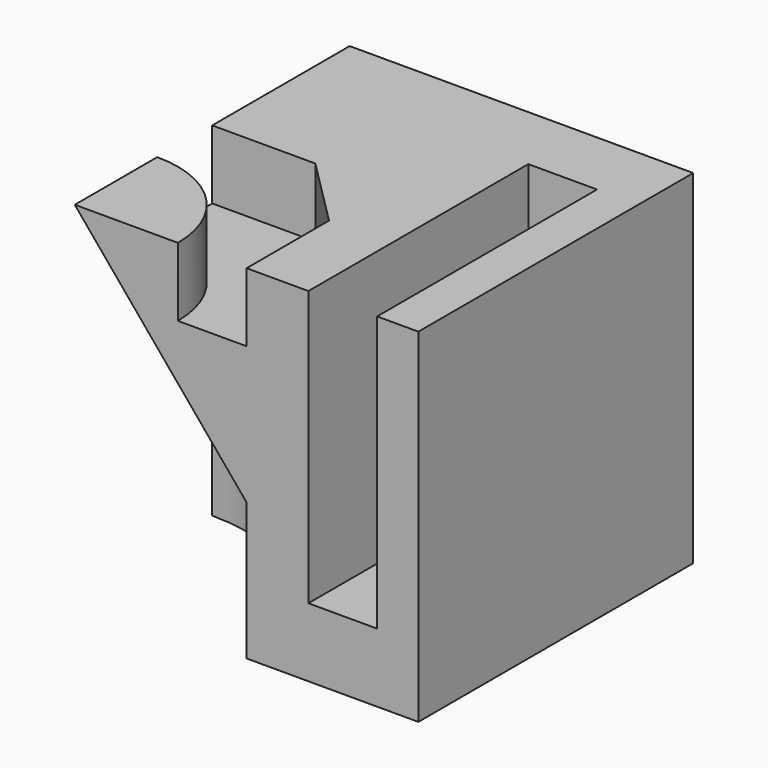
from build123d import *

# Parameters (mm, degrees)
F0_W      = 50
F0_H      = 50
F1_DEPTH  = 50
F3_DEPTH  = 10
F5_DEPTH  = 20
F12_DEPTH = 10


with BuildPart() as f1:
    # F0 (on Top) → F1 (new body)
    with BuildSketch(Plane.XY):
        with Locations((25, 25)):
            Rectangle(F0_W, F0_H)
    extrude(amount=F1_DEPTH)

    # F2 (on face) → F3 (cut)
    with BuildSketch(Plane.XY.offset(50)):
        with BuildLine():
            ThreePointArc((0, 15), (-10.606602, -10.606602), (15, 0))
            Line((15, 0), (0, 0))
            Line((0, 0), (0, 15))
        make_face()
        with BuildLine():
            ThreePointArc((0, 15), (10.606602, 10.606602), (15, 0))
            Line((15, 0), (25, 0))
            Line((25, 0), (25, 15))
            Line((25, 15), (15, 25))
            Line((15, 25), (0, 25))
            Line((0, 25), (0, 15))
        make_face()
    extrude(amount=-F3_DEPTH, mode=Mode.SUBTRACT)

    # F4 (on face) → F5 (cut)
    with BuildSketch(Plane(origin=(0, 0, 0), x_dir=(1, 0, 0), z_dir=(0, 0, -1))):
        with BuildLine():
            Line((0, -25), (0, 0))
            Line((0, 0), (25, 0))
            ThreePointArc((25, 0), (-17.67767, 17.67767), (0, -25))
        make_face()
        with BuildLine():
            Line((25, 0), (0, 0))
            Line((0, 0), (0, -25))
            ThreePointArc((0, -25), (17.67767, -17.67767), (25, 0))
        make_face()
    extrude(amount=-F5_DEPTH, mode=Mode.SUBTRACT)

    # F7 (on face) + F6 (on face) → F8 (revolve, cut)
    with BuildSketch(Plane.XZ):
        Polygon((25, 20), (0, 50), (0, 20), align=None)
    with BuildSketch(Plane(origin=(0, 0, 0), x_dir=(0, -1, 0), z_dir=(-1, 0, 0))):
        Polygon((0, 20), (0, 50), (-25, 20), align=None)
    revolve(axis=Axis((0, 0, 25), (0, 0, 1)), mode=Mode.SUBTRACT)

    # F11 (on offset) → F12 (cut)
    with BuildSketch(Plane.YZ.offset(44)):
        Polygon((30, 10), (30, 20), (40, 20), (40, 50), (0, 50), (0, 10), align=None)
        with BuildLine():
            Line((40, 20), (30, 20))
            Line((30, 20), (30, 10))
            ThreePointArc((30, 10), (37.071068, 12.928932), (40, 20))
        make_face()
    extrude(amount=-F12_DEPTH, mode=Mode.SUBTRACT)


solid = f1.part
